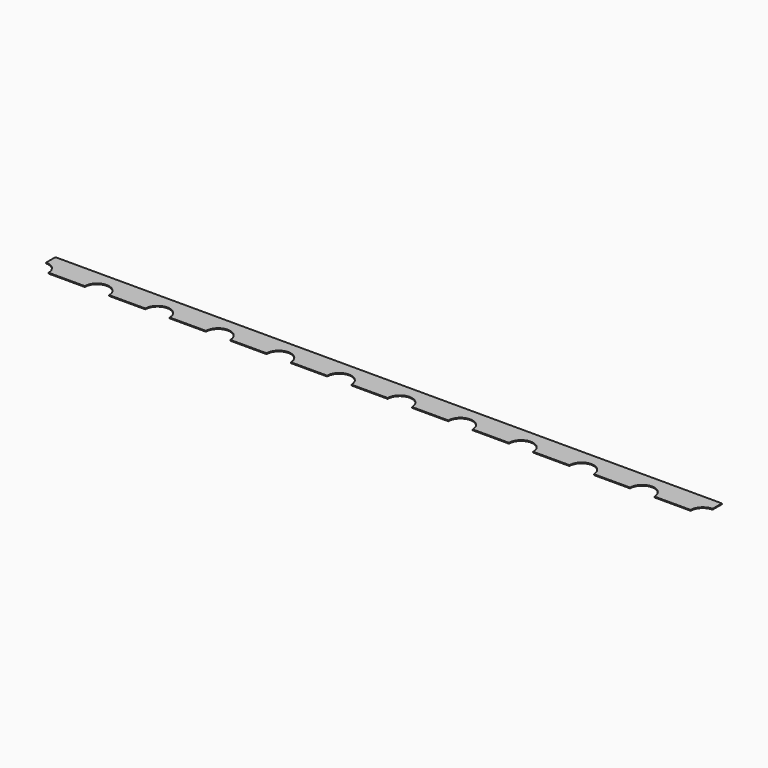
from build123d import *

# Parameters (mm, degrees)
SKETCH004_W             = 27.94
SKETCH004_H             = 1
PAD002_DEPTH            = 0.035
SKETCH005_R             = 0.51
POCKET002_DEPTH         = 0.036
LINEARPATTERN005_COUNT  = 12
LINEARPATTERN005_PITCH  = 2.54
BODY004_PLACEMENT_ANGLE = 180


with BuildPart() as part:
    # Sketch004 → Pad002 (new body)
    with BuildSketch(Plane.XY):
        with Locations((0, 13.47)):
            Rectangle(SKETCH004_W, SKETCH004_H)
    extrude(amount=-PAD002_DEPTH)

    # Sketch005 → Pocket002 (cut, through all)
    with BuildSketch(Plane.XY):
        with Locations((-13.97, 13.97)):
            Circle(SKETCH005_R)
    pocket002 = extrude(amount=-POCKET002_DEPTH, mode=Mode.SUBTRACT)

    # LinearPattern005: Pocket002 ×12
    with Locations(*[(i * LINEARPATTERN005_PITCH, 0, 0) for i in range(1, LINEARPATTERN005_COUNT)]):
        add(pocket002, mode=Mode.SUBTRACT)


with BuildPart() as part_1:
    # Body004 placement: moved
    add(part.part.rotate(Axis((0, 0, 0), (0, 0, 1)), BODY004_PLACEMENT_ANGLE))


solid = part_1.part
